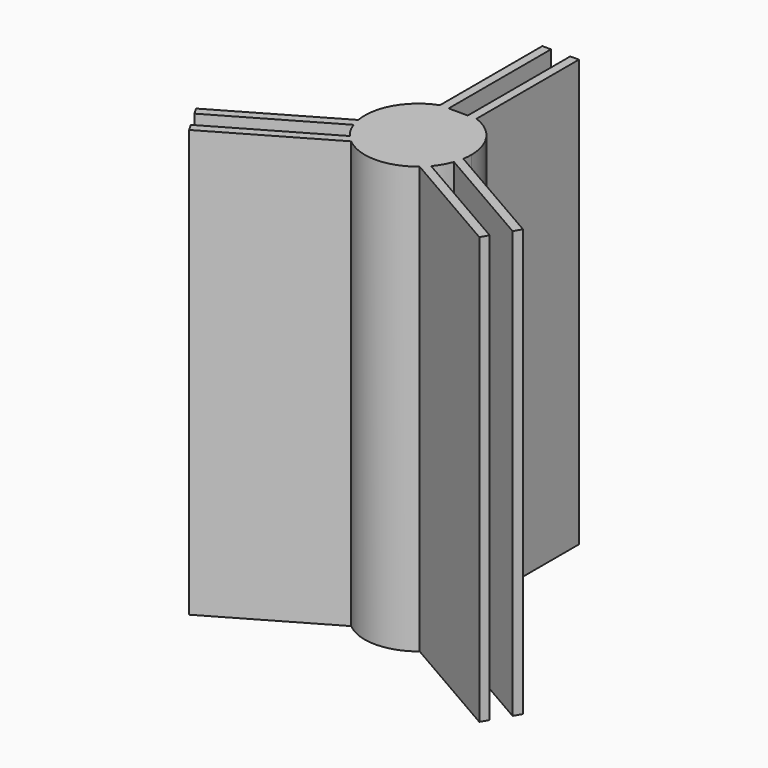
from build123d import *

# Parameters (mm, degrees)
F1_DEPTH = 25.4


with BuildPart() as f1:
    # F0 (on Top) → F1 (new body)
    with BuildSketch(Plane.XY):
        with BuildLine():
            ThreePointArc((0.5710253026, 3.1232283144), (0.8333744276, 3.0636762335), (1.0897403684, 2.9821285904))
            Line((1.0897403684, 2.9821285904), (1.0897403684, 10.6021285904))
            Line((1.0897403684, 10.6021285904), (0.5710253026, 10.6021285904))
            Line((0.5710253026, 10.6021285904), (0.5710253026, 3.1232283144))
        make_face()
        with BuildLine():
            ThreePointArc((-1.0897403684, 2.9821285904), (-0.8333744276, 3.0636762335), (-0.5710253026, 3.1232283144))
            Line((-0.5710253026, 3.1232283144), (-0.5710253026, 10.6021285904))
            Line((-0.5710253026, 10.6021285904), (-1.0897403684, 10.6021285904))
            Line((-1.0897403684, 10.6021285904), (-1.0897403684, 2.9821285904))
        make_face()
        with BuildLine():
            ThreePointArc((-2.9903077134, -1.0670917389), (-3.0699086609, -0.8101146916), (-3.1274693008, -0.5473214526))
            Line((-3.1274693008, -0.5473214526), (-9.7265828776, -4.3573214526))
            Line((-9.7265828776, -4.3573214526), (-9.4672253448, -4.8065418769))
            Line((-9.4672253448, -4.8065418769), (-2.9903077134, -1.0670917389))
        make_face()
        with BuildLine():
            Line((-8.6368425092, -6.2448071378), (-2.0377289324, -2.4348071378))
            ThreePointArc((-2.0377289324, -2.4348071378), (-2.2365342333, -2.2535615419), (-2.4192824108, -2.0561365755))
            Line((-2.4192824108, -2.0561365755), (-8.8962000421, -5.7955867135))
            Line((-8.8962000421, -5.7955867135), (-8.6368425092, -6.2448071378))
        make_face()
        with BuildLine():
            Line((8.8962000421, -5.7955867135), (2.4192824108, -2.0561365755))
            ThreePointArc((2.4192824108, -2.0561365755), (2.2365342333, -2.2535615419), (2.0377289324, -2.4348071378))
            Line((2.0377289324, -2.4348071378), (8.6368425092, -6.2448071378))
            Line((8.6368425092, -6.2448071378), (8.8962000421, -5.7955867135))
        make_face()
        with BuildLine():
            Line((9.7265828776, -4.3573214526), (3.1274693008, -0.5473214526))
            ThreePointArc((3.1274693008, -0.5473214526), (3.0699086609, -0.8101146916), (2.9903077134, -1.0670917389))
            Line((2.9903077134, -1.0670917389), (9.4672253448, -4.8065418769))
            Line((9.4672253448, -4.8065418769), (9.7265828776, -4.3573214526))
        make_face()
        with BuildLine():
            Line((0.5710253026, 2.9821285904), (1.0897403684, 2.9821285904))
            ThreePointArc((1.0897403684, 2.9821285904), (0.8333744276, 3.0636762335), (0.5710253026, 3.1232283144))
            Line((0.5710253026, 3.1232283144), (0.5710253026, 2.9821285904))
        make_face()
        with BuildLine():
            Line((-0.5710253026, 2.9821285904), (-0.5710253026, 3.1232283144))
            ThreePointArc((-0.5710253026, 3.1232283144), (-0.8333744276, 3.0636762335), (-1.0897403684, 2.9821285904))
            Line((-1.0897403684, 2.9821285904), (-0.5710253026, 2.9821285904))
        make_face()
        with BuildLine():
            ThreePointArc((3.1274693008, -0.5473214526), (3.1630950057, -0.2746907078), (3.175, 0))
            ThreePointArc((3.175, 0), (2.6019752756, 1.819436634), (1.0897403684, 2.9821285904))
            Line((1.0897403684, 2.9821285904), (0.5710253026, 2.9821285904))
            Line((0.5710253026, 2.9821285904), (-0.5710253026, 2.9821285904))
            Line((-0.5710253026, 2.9821285904), (-1.0897403684, 2.9821285904))
            ThreePointArc((-1.0897403684, 2.9821285904), (-2.749630657, 1.5875), (-3.1274693008, -0.5473214526))
            ThreePointArc((-3.1274693008, -0.5473214526), (-3.0699086609, -0.8101146916), (-2.9903077134, -1.0670917389))
            ThreePointArc((-2.9903077134, -1.0670917389), (-2.749630657, -1.5875), (-2.4192824108, -2.0561365755))
            ThreePointArc((-2.4192824108, -2.0561365755), (-2.2365342333, -2.2535615419), (-2.0377289324, -2.4348071378))
            ThreePointArc((-2.0377289324, -2.4348071378), (0, -3.175), (2.0377289324, -2.4348071378))
            ThreePointArc((2.0377289324, -2.4348071378), (2.2365342333, -2.2535615419), (2.4192824108, -2.0561365755))
            ThreePointArc((2.4192824108, -2.0561365755), (2.749630657, -1.5875), (2.9903077134, -1.0670917389))
            ThreePointArc((2.9903077134, -1.0670917389), (3.0699086609, -0.8101146916), (3.1274693008, -0.5473214526))
        make_face()
    extrude(amount=F1_DEPTH)


solid = f1.part
